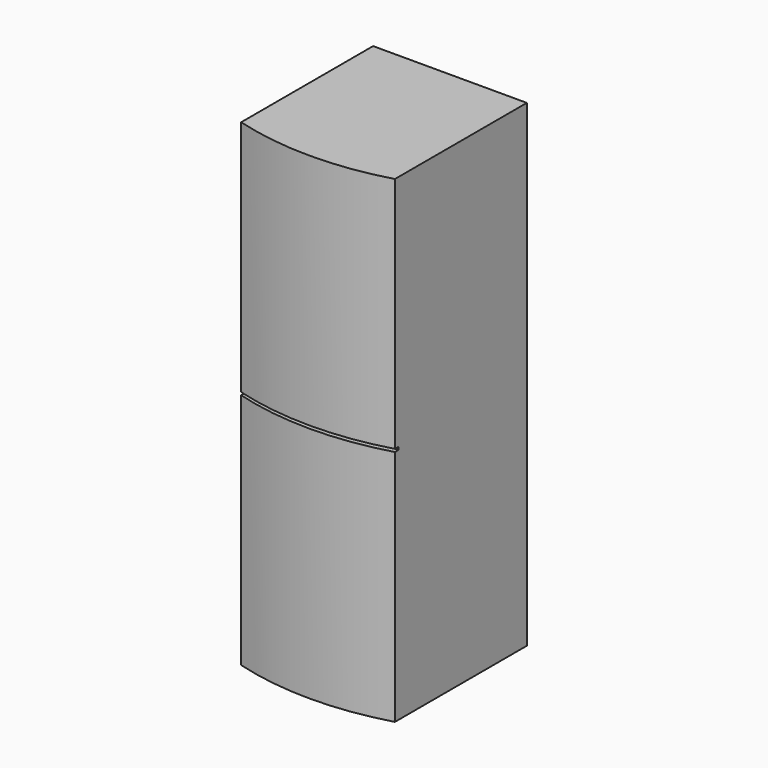
from build123d import *

# Parameters (mm, degrees)
F1_DEPTH = 850
F2_W     = 550
F2_H     = 575
F3_DEPTH = 10
F4_W     = 550
F4_H     = 575
F5_DEPTH = 850


with BuildPart() as f1:
    # F0 (on Top) → F1 (new body)
    with BuildSketch(Plane.XY):
        with BuildLine():
            Line((-277.06279, 422.74684), (-277.06279, -167.25316))
            ThreePointArc((-277.06279, -167.25316), (-2.06279, -205.808933), (272.93721, -167.25316))
            Line((272.93721, -167.25316), (272.93721, 422.74684))
            Line((272.93721, 422.74684), (-277.06279, 422.74684))
        make_face()
    extrude(amount=F1_DEPTH)

    # F2 (on face) → F3 (join)
    with BuildSketch(Plane.XY.offset(850)):
        with Locations((-2.06279, 135.24684)):
            Rectangle(F2_W, F2_H)
    extrude(amount=F3_DEPTH)

    # F4 (on face) → F5 (join)
    with BuildSketch(Plane.XY.offset(860)):
        with Locations((-2.06279, 135.24684)):
            Rectangle(F4_W, F4_H)
        with BuildLine():
            Line((272.93721, -152.25316), (-277.06279, -152.25316))
            Line((-277.06279, -152.25316), (-277.06279, -167.25316))
            ThreePointArc((-277.06279, -167.25316), (-2.06279, -205.808933), (272.93721, -167.25316))
            Line((272.93721, -167.25316), (272.93721, -152.25316))
        make_face()
    extrude(amount=F5_DEPTH)


solid = f1.part
